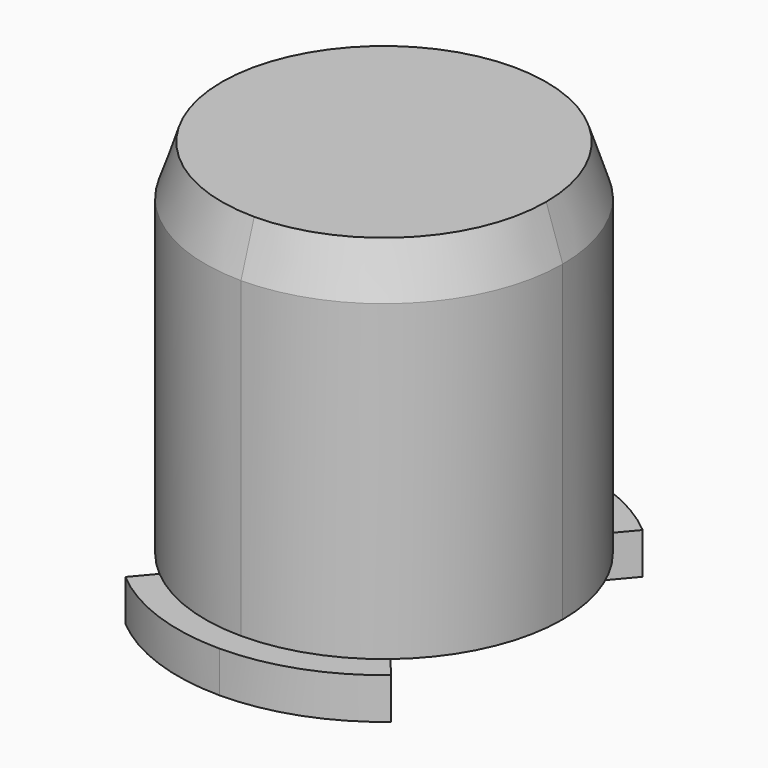
from build123d import *

# Parameters (mm, degrees)
PAD_DEPTH               = 3
PAD001_DEPTH            = 2
PAD002_DEPTH            = 20
PAD003_DEPTH            = 2.5
PAD_MIRRORED_2_DEPTH    = 3
PAD001_MIRRORED_2_DEPTH = 2
PAD002_MIRRORED_2_DEPTH = 20
PAD003_MIRRORED_2_DEPTH = 2.5
CHAMFER_SIZE2           = 1
CHAMFER_SIZE            = 3


with BuildPart() as part:
    # Sketch → Pad (new body)
    with BuildSketch(Plane.XY):
        Polygon((0, 4.25), (1, 4.25), (1, 3), (3, 3), (3, 0), (0, 0), align=None)
    pad = extrude(amount=PAD_DEPTH)

    # Sketch001 (on Face8 of Pad) → Pad001 (join)
    with BuildSketch(Plane.XY.offset(3)):
        with BuildLine():
            ThreePointArc((10.85, 0), (7.672109, 7.672109), (0, 10.85))
            Line((0, 10.85), (0, 0))
            Line((0, 0), (10.85, 0))
        make_face()
    pad001 = extrude(amount=PAD001_DEPTH)

    # Sketch002 (on Face12 of Pad001) → Pad002 (join)
    with BuildSketch(Plane.XY.offset(5)):
        with BuildLine():
            ThreePointArc((10.85, 0), (7.672109, 7.672109), (0, 10.85))
            Line((0, 0), (0, 10.85))
            Line((0, 0), (10.85, 0))
        make_face()
    pad002 = extrude(amount=PAD002_DEPTH)

    # Sketch003 (on Face5 of Pad002) → Pad003 (join)
    with BuildSketch(Plane(origin=(0, 0, 3), x_dir=(1, 0, 0), z_dir=(0, 0, -1))):
        with BuildLine():
            ThreePointArc((1.25, -5.868347), (2.641923, -5.387044), (3.874663, -4.581156))
            Line((3.874663, -4.581156), (8.072214, -9.544074))
            ThreePointArc((0, -12.5), (4.298201, -11.737779), (8.072214, -9.544074))
            Line((0, -8.868347), (0, -12.5))
            Line((1.25, -8.868347), (0, -8.868347))
            Line((1.25, -8.868347), (1.25, -5.868347))
        make_face()
    pad003 = extrude(amount=PAD003_DEPTH)

    # Sketch Mirrored 2 → Pad Mirrored 2 (add)
    with BuildSketch(Plane(origin=(0, 0, 0), x_dir=(-1, 0, 0), z_dir=(0, 0, -1))):
        Polygon((0, 4.25), (1, 4.25), (1, 3), (3, 3), (3, 0), (0, 0), align=None)
    pad_mirrored_2 = extrude(amount=-PAD_MIRRORED_2_DEPTH)

    # Sketch001 Mirrored 2 → Pad001 Mirrored 2 (add)
    with BuildSketch(Plane(origin=(0, 0, 3), x_dir=(-1, 0, 0), z_dir=(0, 0, -1))):
        with BuildLine():
            ThreePointArc((10.85, 0), (7.672109, 7.672109), (0, 10.85))
            Line((0, 10.85), (0, 0))
            Line((0, 0), (10.85, 0))
        make_face()
    pad001_mirrored_2 = extrude(amount=-PAD001_MIRRORED_2_DEPTH)

    # Sketch002 Mirrored 2 → Pad002 Mirrored 2 (add)
    with BuildSketch(Plane(origin=(0, 0, 5), x_dir=(-1, 0, 0), z_dir=(0, 0, -1))):
        with BuildLine():
            ThreePointArc((10.85, 0), (7.672109, 7.672109), (0, 10.85))
            Line((0, 0), (0, 10.85))
            Line((0, 0), (10.85, 0))
        make_face()
    pad002_mirrored_2 = extrude(amount=-PAD002_MIRRORED_2_DEPTH)

    # Sketch003 Mirrored 2 → Pad003 Mirrored 2 (add)
    with BuildSketch(Plane(origin=(0, 0, 3), x_dir=(-1, 0, 0), z_dir=(0, 0, 1))):
        with BuildLine():
            ThreePointArc((1.25, -5.868347), (2.641923, -5.387044), (3.874663, -4.581156))
            Line((3.874663, -4.581156), (8.072214, -9.544074))
            ThreePointArc((0, -12.5), (4.298201, -11.737779), (8.072214, -9.544074))
            Line((0, -8.868347), (0, -12.5))
            Line((1.25, -8.868347), (0, -8.868347))
            Line((1.25, -8.868347), (1.25, -5.868347))
        make_face()
    pad003_mirrored_2 = extrude(amount=-PAD003_MIRRORED_2_DEPTH)

    # Mirrored001: Pad, Pad001, Pad002, Pad003, Pad Mirrored 2, Pad001 Mirrored 2, Pad002 Mirrored 2, Pad003 Mirrored 2 across Sketch H_Axis
    add(pad.mirror(Plane.ZX))
    add(pad001.mirror(Plane.ZX))
    add(pad002.mirror(Plane.ZX))
    add(pad003.mirror(Plane.ZX))
    add(pad_mirrored_2.mirror(Plane.ZX))
    add(pad001_mirrored_2.mirror(Plane.ZX))
    add(pad002_mirrored_2.mirror(Plane.ZX))
    add(pad003_mirrored_2.mirror(Plane.ZX))

    # Chamfer
    chamfer_edges = [part.edges().sort_by_distance(p)[0] for p in [
        (-7.672109, -7.672109, 25),
    ]]
    chamfer_side = part.faces().sort_by_distance((-7.672109, -7.672109, 15))[0]
    chamfer(chamfer_edges, length=CHAMFER_SIZE, length2=CHAMFER_SIZE2, reference=chamfer_side)


solid = part.part
